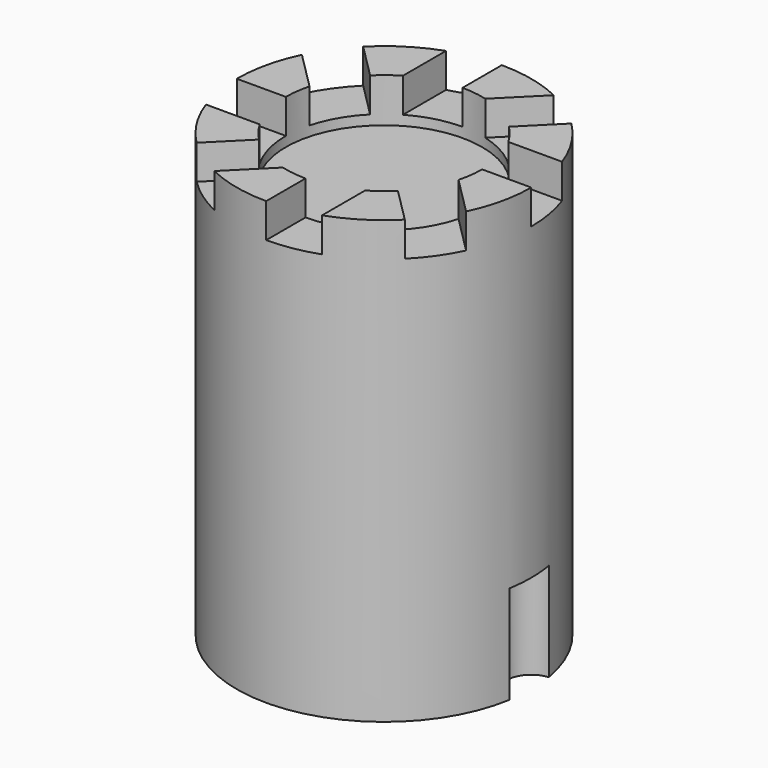
from build123d import *

# Parameters (mm, degrees)
CYLINDER002_R     = 5
CYLINDER002_DEPTH = 20
BOX_W             = 20
BOX_H             = 10
BOX_DEPTH         = 10
ARRAY_COUNT       = 8
CYLINDER001_R     = 20
CYLINDER001_DEPTH = 10
CYLINDER_R        = 30
CYLINDER_DEPTH    = 90


with BuildPart() as cilindro:
    # Cylinder002 → Cylinder002 (new body)
    with BuildSketch(Plane(origin=(30, 0, 0), x_dir=(1, 0, 0), z_dir=(0, 0, 1))):
        Circle(CYLINDER002_R)
    extrude(amount=CYLINDER002_DEPTH)


with BuildPart() as array:
    # Box → Box (new body)
    with BuildSketch(Plane(origin=(13, 0, 83), x_dir=(1, 0, 0), z_dir=(0, 0, 1))):
        with Locations((10, 5)):
            Rectangle(BOX_W, BOX_H)
    extrude(amount=BOX_DEPTH)

    # Array: Array ×8 about axis
    array_axis = Axis((0, 0, 0), (0, 0, 1))


with BuildPart() as array_1:
    add(array.part)
    for i in range(1, ARRAY_COUNT):
        add(array.part.rotate(array_axis, i * 360 / ARRAY_COUNT))


with BuildPart() as cylinder001:
    # Cylinder001 → Cylinder001 (new body)
    with BuildSketch(Plane.XY.offset(81)):
        Circle(CYLINDER001_R)
    extrude(amount=CYLINDER001_DEPTH)


with BuildPart() as cut002:
    # Cylinder → Cylinder (new body)
    with BuildSketch(Plane.XY):
        Circle(CYLINDER_R)
    extrude(amount=CYLINDER_DEPTH)

    # Cut: cut Cylinder001
    add(cylinder001.part, mode=Mode.SUBTRACT)

    # Cut001: cut Array
    add(array_1.part, mode=Mode.SUBTRACT)

    # Cut002: cut Cilindro
    add(cilindro.part, mode=Mode.SUBTRACT)


solid = cut002.part
